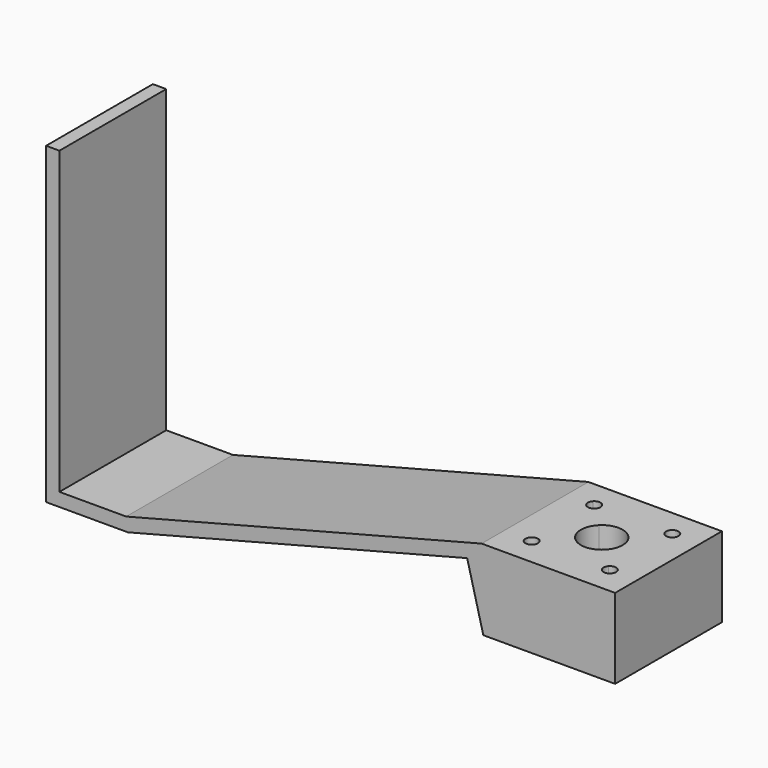
from build123d import *

# Parameters (mm, degrees)
F1_DEPTH = 25.4
F3_DEPTH = 12.7
F5_DEPTH = 25.4
F6_DEPTH = 20.0035


with BuildPart() as f1:
    # F0 (on Front) → F1 (new body)
    with BuildSketch(Plane.XZ):
        Polygon((-50.2629226224, -17.4625), (-50.2629226224, 39.6875), (-52.8029226224, 39.6875), (-52.8029226224, -20.0025), (-37.2403003217, -20.0025), (30.3916713614, -2.54), (55.4690490608, -2.54), (55.4690490608, 0), (30.0690490608, 0), (-37.5629226224, -17.4625), align=None)
    extrude(amount=F1_DEPTH)

    # F3 (add): a face of the model
    f3_faces = [f1.faces().sort_by_distance(p)[0] for p in [
        (42.9303602111, -12.7, -2.54),
    ]]
    extrude(f3_faces, amount=F3_DEPTH)

    # F4 (on face) → F5 (join)
    with BuildSketch(Plane.XZ.offset(25.4)):
        Polygon((27.3174908304, -3.33375), (30.3916713614, -15.24), (30.3916713614, -2.54), align=None)
    extrude(amount=-F5_DEPTH)

    # F2 (on face) → F6 (cut, through all)
    with BuildSketch(Plane.XY):
        with BuildLine():
            Line((42.7690490608, -12.7), (45.5753790986, -9.8936699622))
            ThreePointArc((45.5753790986, -9.8936699622), (42.7690490608, -8.73125), (39.962719023, -9.8936699622))
            Line((39.962719023, -9.8936699622), (42.7690490608, -12.7))
        make_face()
        with BuildLine():
            ThreePointArc((45.5753790986, -15.5063300378), (46.4356959554, -14.2187748722), (46.7377990608, -12.7))
            ThreePointArc((46.7377990608, -12.7), (46.4356959554, -11.1812251278), (45.5753790986, -9.8936699622))
            Line((45.5753790986, -9.8936699622), (42.7690490608, -12.7))
            Line((42.7690490608, -12.7), (45.5753790986, -15.5063300378))
        make_face()
        with BuildLine():
            ThreePointArc((39.962719023, -15.5063300378), (42.7690490608, -16.66875), (45.5753790986, -15.5063300378))
            Line((45.5753790986, -15.5063300378), (42.7690490608, -12.7))
            Line((42.7690490608, -12.7), (39.962719023, -15.5063300378))
        make_face()
        with BuildLine():
            Line((42.7690490608, -12.7), (39.962719023, -9.8936699622))
            ThreePointArc((39.962719023, -9.8936699622), (38.8002990608, -12.7), (39.962719023, -15.5063300378))
            Line((39.962719023, -15.5063300378), (42.7690490608, -12.7))
        make_face()
        with BuildLine():
            ThreePointArc((51.0651573617, -4.4038916991), (49.3692304778, -4.3915855299), (49.3815366471, -6.0875124137))
            Line((49.3815366471, -6.0875124137), (51.0651573617, -4.4038916991))
        make_face()
        with BuildLine():
            Line((51.0651573617, -4.4038916991), (49.3815366471, -6.0875124137))
            ThreePointArc((49.3815366471, -6.0875124137), (50.6747316424, -6.3301435284), (51.4017544892, -5.2334845412))
            ThreePointArc((51.4017544892, -5.2334845412), (51.314400722, -4.7858457611), (51.0651573617, -4.4038916991))
        make_face()
        with BuildLine():
            ThreePointArc((51.4017544892, -20.0924845412), (50.6505107302, -18.9858987941), (49.3447978224, -19.2757487616))
            Line((49.3447978224, -19.2757487616), (51.0278652688, -20.958816208))
            ThreePointArc((51.0278652688, -20.958816208), (51.3042932299, -20.564269372), (51.4017544892, -20.0924845412))
        make_face()
        with BuildLine():
            Line((51.0278652688, -20.958816208), (49.3447978224, -19.2757487616))
            ThreePointArc((49.3447978224, -19.2757487616), (49.3692304778, -20.9343835526), (51.0278652688, -20.958816208))
        make_face()
        with BuildLine():
            ThreePointArc((36.5427544892, -20.0924845412), (36.455400722, -19.6448457611), (36.2061573617, -19.2628916991))
            Line((36.2061573617, -19.2628916991), (34.5225366471, -20.9465124137))
            ThreePointArc((34.5225366471, -20.9465124137), (35.8157316424, -21.1891435284), (36.5427544892, -20.0924845412))
        make_face()
        with BuildLine():
            Line((34.5225366471, -20.9465124137), (36.2061573617, -19.2628916991))
            ThreePointArc((36.2061573617, -19.2628916991), (34.5102304778, -19.2505855299), (34.5225366471, -20.9465124137))
        make_face()
        with BuildLine():
            ThreePointArc((34.4857978224, -4.4167487616), (34.5102304778, -6.0753835526), (36.1688652688, -6.099816208))
            Line((36.1688652688, -6.099816208), (34.4857978224, -4.4167487616))
        make_face()
        with BuildLine():
            Line((34.4857978224, -4.4167487616), (36.1688652688, -6.099816208))
            ThreePointArc((36.1688652688, -6.099816208), (36.4452932299, -5.705269372), (36.5427544892, -5.2334845412))
            ThreePointArc((36.5427544892, -5.2334845412), (35.7915107302, -4.1268987941), (34.4857978224, -4.4167487616))
        make_face()
    extrude(amount=-F6_DEPTH, mode=Mode.SUBTRACT)


solid = f1.part
